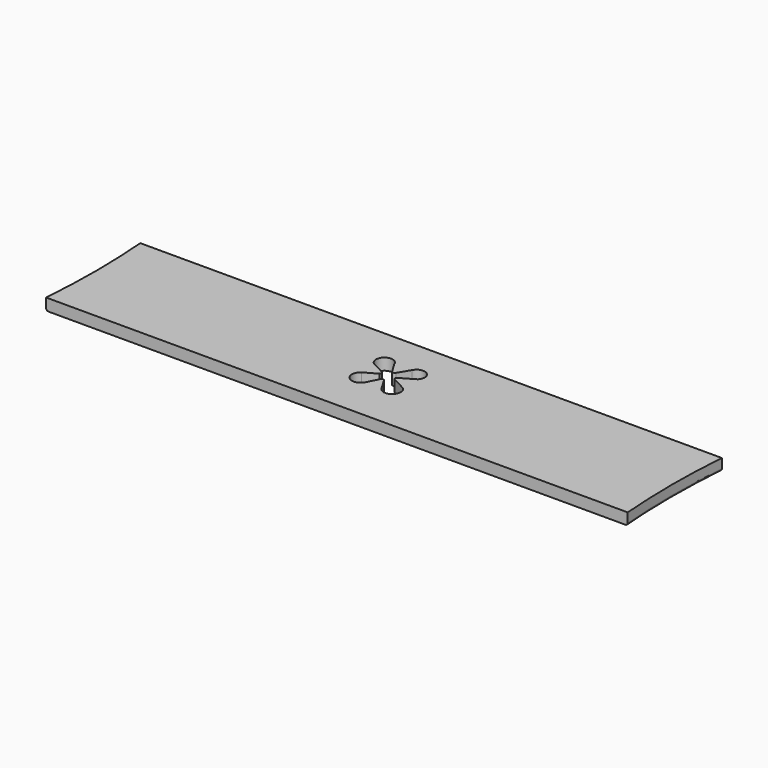
from build123d import *

# Parameters (mm, degrees)
F1_DEPTH = 25.4
F2_R     = 5.08
F3_R     = 5.08


with BuildPart() as f1:
    # F0 (on Top) → F1 (new body)
    with BuildSketch(Plane.XY):
        with BuildLine():
            ThreePointArc((-635, 117.375871), (-629.849929, -11.178382), (-635, -139.732635))
            Line((-635, -139.732635), (0, -139.732635))
            Line((0, -139.732635), (635, -139.732635))
            ThreePointArc((635, -139.732635), (629.849929, -11.178382), (635, 117.375871))
            Line((635, 117.375871), (0, 117.375871))
            Line((0, 117.375871), (-635, 117.375871))
        make_face()
        with BuildLine():
            ThreePointArc((-43.281963, 17.344755), (-46.751505, 47.124444), (-17.833089, 39.212882))
            Line((-17.833089, 39.212882), (-3.765872, 15.682267))
            ThreePointArc((-3.765872, 15.682267), (0.431929, 13.301076), (4.62973, 15.682267))
            Line((4.62973, 15.682267), (19.791877, 41.044401))
            ThreePointArc((19.791877, 41.044401), (46.275397, 47.39389), (48.414995, 20.24403))
            Line((48.414995, 20.24403), (17.154038, 2.016637))
            ThreePointArc((17.154038, 2.016637), (15.749838, -1.278464), (17.74202, -4.255153))
            Line((17.74202, -4.255153), (48.315184, -20.3542))
            ThreePointArc((48.315184, -20.3542), (49.888098, -48.459777), (21.858588, -45.862841))
            Line((21.858588, -45.862841), (6.283131, -19.133924))
            ThreePointArc((6.283131, -19.133924), (2.217899, -16.634052), (-1.847334, -19.133924))
            Line((-1.847334, -19.133924), (-13.774237, -42.722683))
            ThreePointArc((-13.774237, -42.722683), (-43.686922, -50.190632), (-42.133754, -19.398967))
            Line((-42.133754, -19.398967), (-15.645329, -4.420306))
            ThreePointArc((-15.645329, -4.420306), (-14.166998, -0.694867), (-15.645329, 3.030572))
            Line((-15.645329, 3.030572), (-43.281963, 17.344755))
        make_face(mode=Mode.SUBTRACT)
    extrude(amount=F1_DEPTH)

    # F2
    f2_edges = [f1.edges().sort_by_distance(p)[0] for p in [
        (-629.849929, -11.178382, 0),
    ]]
    fillet(f2_edges, radius=F2_R)

    # F3
    f3_edges = [f1.edges().sort_by_distance(p)[0] for p in [
        (629.849929, -11.178382, 0),
    ]]
    fillet(f3_edges, radius=F3_R)


solid = f1.part
